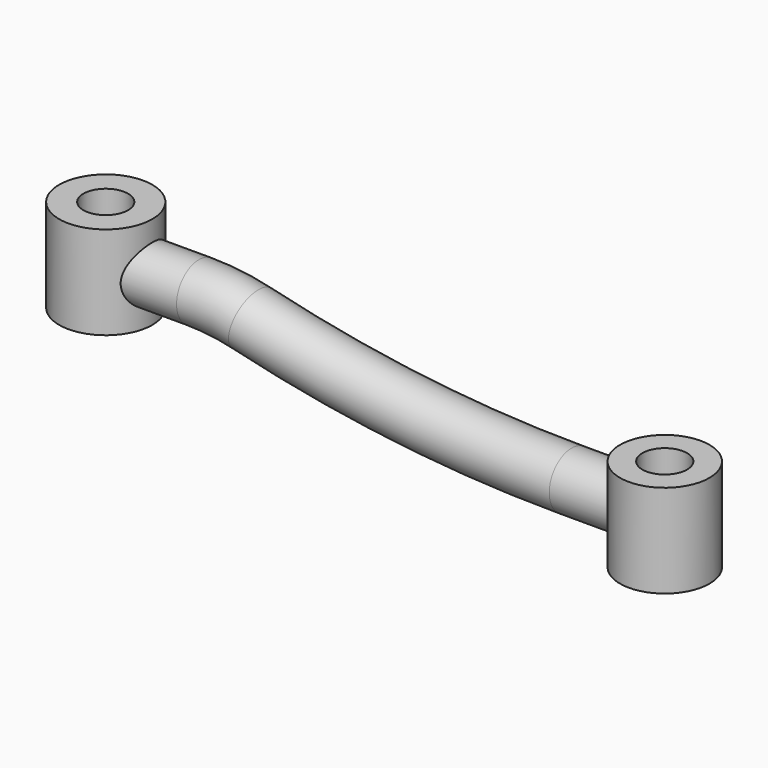
from build123d import *

# Parameters (mm, degrees)
F0_R          = 12.5
F0_R_2        = 6
F1_DEPTH      = 25
F3_R          = 12
F3_R_2        = 6
F4_DEPTH      = 12.5
F4_DEPTH_BACK = 12.5
F5_R          = 7.5
F7_R          = 6
F8_DEPTH      = 12.5010001
F8_DEPTH_BACK = 25.0010001


with BuildPart() as f1:
    # F0 (on Top) → F1 (new body)
    with BuildSketch(Plane.XY):
        Circle(F0_R)
        Circle(F0_R_2, mode=Mode.SUBTRACT)
    extrude(amount=F1_DEPTH)



with BuildPart() as f4:
    # F3 (on Top) → F4 (new body, two sides)
    with BuildSketch(Plane.XY) as f4_sk:
        with Locations((150, 0)):
            Circle(F3_R)
        with Locations((150, 0)):
            Circle(F3_R_2, mode=Mode.SUBTRACT)
    extrude(amount=F4_DEPTH)
    extrude(f4_sk.sketch, amount=-F4_DEPTH_BACK)


with BuildPart() as f1_1:
    add(f1.part)

    add(f4.part)  # F6 merges F4
    # F6: sweep along a path in F2
    with BuildLine(Plane.XZ) as f6_path:
        Line((0, 12), (25, 12))
        ThreePointArc((25, 12), (32.1487132371, 11.5726103092), (39.1955835962, 10.2965299685))
        ThreePointArc((39.1955835962, 10.2965299685), (81.789999989, 2.5833332421), (125, 0))
        Line((125, 0), (150, 0))
    # F5 (on Right) → F6 (sweep)
    with BuildSketch(Plane.YZ):
        with Locations((0, 12)):
            Circle(F5_R)
    sweep(path=f6_path.line)

    # F7 (on Top) → F8 (cut, two sides)
    with BuildSketch(Plane.XY) as f8_sk:
        Circle(F7_R)
        with Locations((150, 0)):
            Circle(F7_R)
    extrude(amount=-F8_DEPTH, mode=Mode.SUBTRACT)
    extrude(f8_sk.sketch, amount=F8_DEPTH_BACK, mode=Mode.SUBTRACT)


solid = f1_1.part
